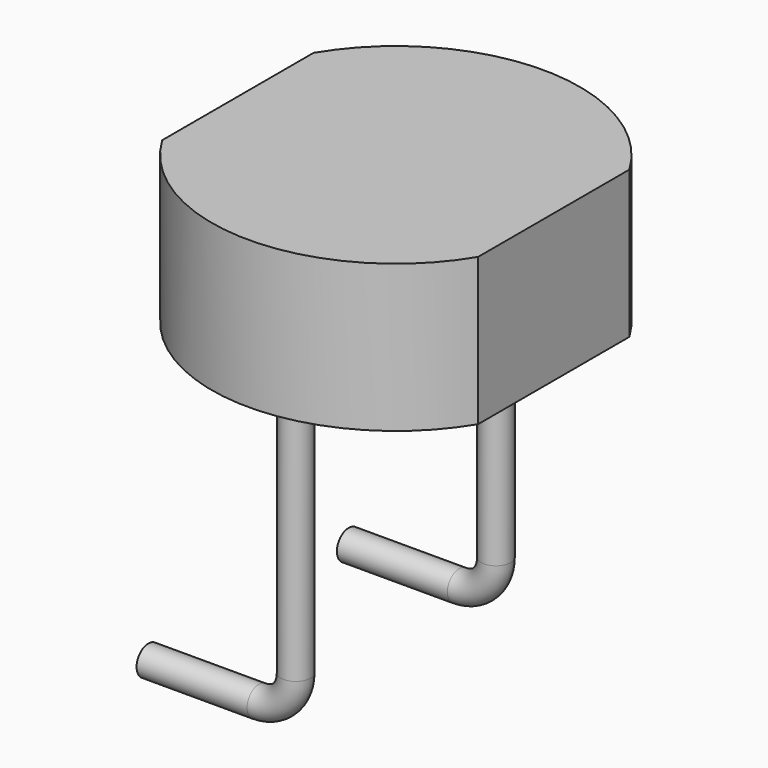
from build123d import *

# Parameters (mm, degrees)
F1_DEPTH = 2
F2_R     = 0.2


with BuildPart() as f1:
    # F0 (on Top) → F1 (new body)
    with BuildSketch(Plane.XY):
        with BuildLine():
            Line((-2.145, 1.2841242152), (-2.145, -1.2841242152))
            ThreePointArc((-2.145, -1.2841242152), (0, -2.5), (2.145, -1.2841242152))
            Line((2.145, -1.2841242152), (2.145, 1.2841242152))
            ThreePointArc((2.145, 1.2841242152), (0, 2.5), (-2.145, 1.2841242152))
        make_face()
    extrude(amount=F1_DEPTH)

    # F4: sweep along a path in F3
    with BuildLine(Plane.XZ) as f4_path:
        Line((0, 0), (0, -3.5))
        ThreePointArc((0, -3.5), (-0.1464466094, -3.8535533906), (-0.5, -4))
        Line((-0.5, -4), (-2, -4))
    # F2 (on face) → F4 (sweep)
    with BuildSketch(Plane(origin=(0, 0, 0), x_dir=(1, 0, 0), z_dir=(0, 0, -1))):
        with Locations((0, -1.7)):
            Circle(F2_R)
        with Locations((0, 1.7)):
            Circle(F2_R)
    sweep(path=f4_path.line)


solid = f1.part
